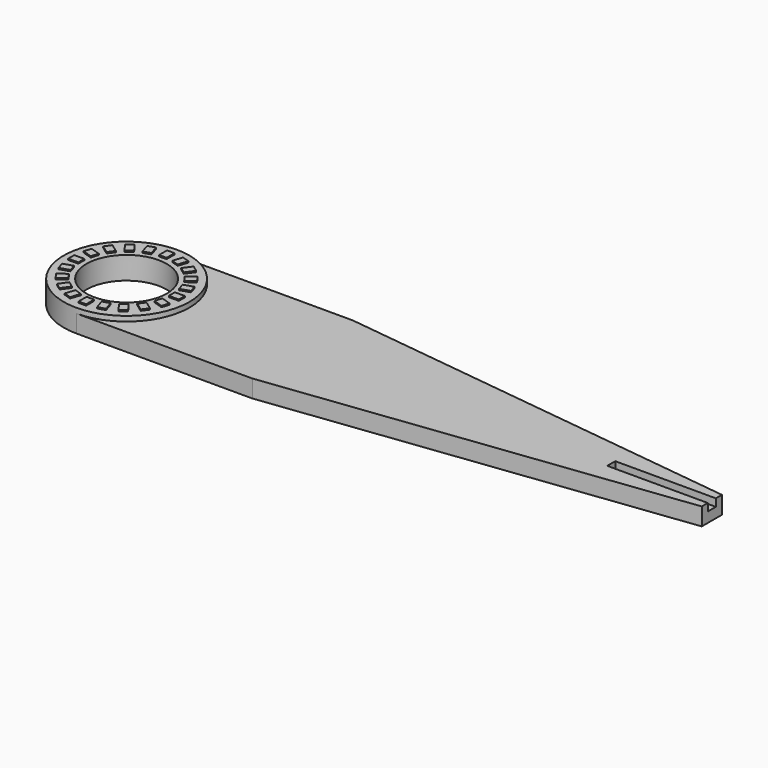
from build123d import *

# Parameters (mm, degrees)
F0_R     = 8
F1_DEPTH = 3.5
F2_R     = 12.5
F2_R_2   = 8
F3_DEPTH = 1
F4_W     = 1.5
F4_H     = 2
F4_W_2   = 2
F4_H_2   = 1.5
F5_DEPTH = 0.25
F6_W     = 20
F6_H     = 2
F7_DEPTH = 1.5


with BuildPart() as f1:
    # F0 (on Top) → F1 (new body)
    with BuildSketch(Plane.XY):
        with BuildLine():
            ThreePointArc((0, -12.5), (8.838835, -8.838835), (12.5, 0))
            ThreePointArc((12.5, 0), (8.838835, 8.838835), (0, 12.5))
            ThreePointArc((0, 12.5), (-12.5, 0), (0, -12.5))
        make_face()
        Circle(F0_R, mode=Mode.SUBTRACT)
        with BuildLine():
            ThreePointArc((0, 12.5), (8.838835, 8.838835), (12.5, 0))
            ThreePointArc((12.5, 0), (8.838835, -8.838835), (0, -12.5))
            Line((0, -12.5), (35, -12.5))
            Line((35, -12.5), (116.388784, -2.506714))
            Line((116.388784, -2.506714), (116.388784, 2.506714))
            Line((116.388784, 2.506714), (35, 12.5))
            Line((35, 12.5), (0, 12.5))
        make_face()
    extrude(amount=F1_DEPTH)

    # F2 (on face) → F3 (join)
    with BuildSketch(Plane.XY.offset(3.5)):
        Circle(F2_R)
        Circle(F2_R_2, mode=Mode.SUBTRACT)
    extrude(amount=F3_DEPTH)

    # F4 (on face) → F5 (join)
    with BuildSketch(Plane.XY.offset(4.5)):
        with Locations((0, 10)):
            Rectangle(F4_W, F4_H)
        Polygon((-2.685895, 10.693384), (-4.112479, 10.229859), (-3.494445, 8.327746), (-2.067861, 8.791271), align=None)
        Polygon((-5.858875, 9.340026), (-7.072401, 8.458348), (-5.89683, 6.840314), (-4.683305, 7.721992), align=None)
        Polygon((-8.458348, 7.072401), (-9.340026, 5.858875), (-7.721992, 4.683305), (-6.840314, 5.89683), align=None)
        Polygon((-10.229859, 4.112479), (-10.693384, 2.685895), (-8.791271, 2.067861), (-8.327746, 3.494445), align=None)
        with Locations((-10, 0)):
            Rectangle(F4_W_2, F4_H_2)
        Polygon((-10.693384, -2.685895), (-10.229859, -4.112479), (-8.327746, -3.494445), (-8.791271, -2.067861), align=None)
        Polygon((-9.340026, -5.858875), (-8.458348, -7.072401), (-6.840314, -5.89683), (-7.721992, -4.683305), align=None)
        Polygon((-7.072401, -8.458348), (-5.858875, -9.340026), (-4.683305, -7.721992), (-5.89683, -6.840314), align=None)
        Polygon((-4.112479, -10.229859), (-2.685895, -10.693384), (-2.067861, -8.791271), (-3.494445, -8.327746), align=None)
        with Locations((0, -10)):
            Rectangle(F4_W, F4_H)
        Polygon((2.685895, -10.693384), (4.112479, -10.229859), (3.494445, -8.327746), (2.067861, -8.791271), align=None)
        Polygon((5.858875, -9.340026), (7.072401, -8.458348), (5.89683, -6.840314), (4.683305, -7.721992), align=None)
        Polygon((8.458348, -7.072401), (9.340026, -5.858875), (7.721992, -4.683305), (6.840314, -5.89683), align=None)
        Polygon((10.229859, -4.112479), (10.693384, -2.685895), (8.791271, -2.067861), (8.327746, -3.494445), align=None)
        with Locations((10, 0)):
            Rectangle(F4_W_2, F4_H_2)
        Polygon((10.693384, 2.685895), (10.229859, 4.112479), (8.327746, 3.494445), (8.791271, 2.067861), align=None)
        Polygon((9.340026, 5.858875), (8.458348, 7.072401), (6.840314, 5.89683), (7.721992, 4.683305), align=None)
        Polygon((7.072401, 8.458348), (5.858875, 9.340026), (4.683305, 7.721992), (5.89683, 6.840314), align=None)
        Polygon((4.112479, 10.229859), (2.685895, 10.693384), (2.067861, 8.791271), (3.494445, 8.327746), align=None)
    extrude(amount=F5_DEPTH)

    # F6 (on face) → F7 (cut)
    with BuildSketch(Plane.XY.offset(3.5)):
        with Locations((106.388784, -0.006714)):
            Rectangle(F6_W, F6_H)
    extrude(amount=-F7_DEPTH, mode=Mode.SUBTRACT)


solid = f1.part
